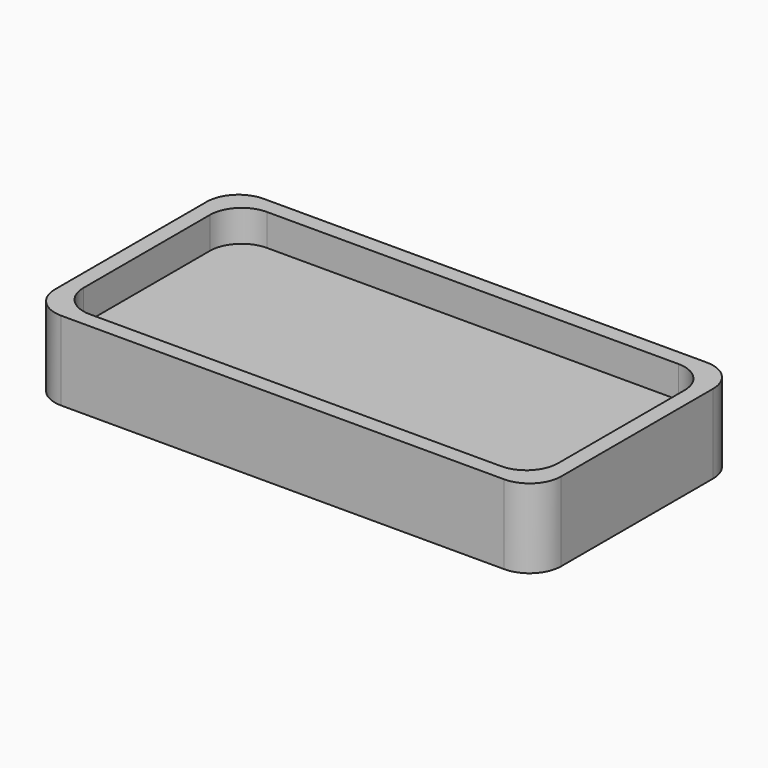
from build123d import *

# Parameters (mm, degrees)
F0_W     = 190.5
F0_H     = 88.9
F1_DEPTH = 19.05
F0_W_2   = 203.2
F0_H_2   = 101.6
F2_DEPTH = 31.75
F3_R     = 12.7


with BuildPart() as f1:
    # F0 (on Top) → F1 (new body)
    with BuildSketch(Plane.XY):
        Rectangle(F0_W, F0_H)
    extrude(amount=F1_DEPTH)


with BuildPart() as f2:
    # F0 (on Top) → F2 (new body)
    with BuildSketch(Plane.XY):
        Rectangle(F0_W_2, F0_H_2)
        Rectangle(F0_W, F0_H, mode=Mode.SUBTRACT)
    extrude(amount=F2_DEPTH)

    # F3
    f3_edges = [f2.edges().sort_by_distance(p)[0] for p in [
        (-101.6, 50.8, 15.875),
        (-101.6, -50.8, 15.875),
        (101.6, -50.8, 15.875),
        (101.6, 50.8, 15.875),
        (-95.25, 44.45, 15.875),
        (-95.25, -44.45, 15.875),
        (95.25, 44.45, 15.875),
        (95.25, -44.45, 15.875),
    ]]
    fillet(f3_edges, radius=F3_R)


solid = Compound([f1.part, f2.part])
